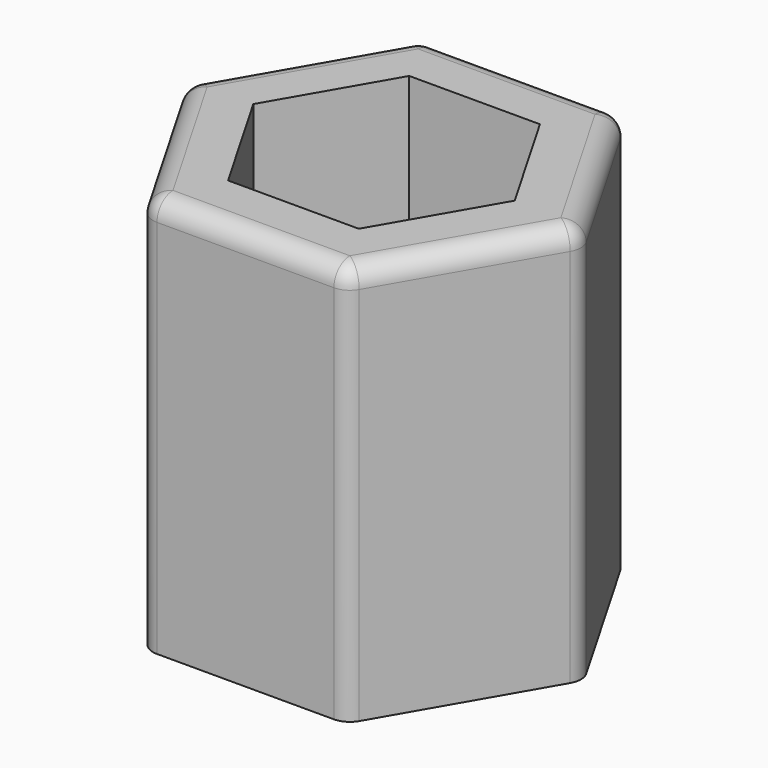
from build123d import *

# Parameters (mm, degrees)
F1_DEPTH = 20
F2_R     = 1


with BuildPart() as f1:
    # F0 (on Top) → F1 (new body)
    with BuildSketch(Plane.XY):
        Polygon((10, 0), (5, 8.660254), (-5, 8.660254), (-10, 0), (-5, -8.660254), (5, -8.660254), align=None)
        Polygon((3.267949, -5.660254), (-3.267949, -5.660254), (-6.535898, 0), (-3.267949, 5.660254), (3.267949, 5.660254), (6.535898, 0), align=None, mode=Mode.SUBTRACT)
    extrude(amount=F1_DEPTH)

    # F2
    f2_edges = [f1.edges().sort_by_distance(p)[0] for p in [
        (-7.5, -4.330127, 20),
        (-7.5, 4.330127, 20),
        (0, 8.660254, 20),
        (7.5, 4.330127, 20),
        (7.5, -4.330127, 20),
        (0, -8.660254, 20),
        (-5, -8.660254, 10),
        (10, 0, 10),
        (5, -8.660254, 10),
        (5, 8.660254, 10),
        (-5, 8.660254, 10),
        (-10, 0, 10),
    ]]
    fillet(f2_edges, radius=F2_R)


solid = f1.part
